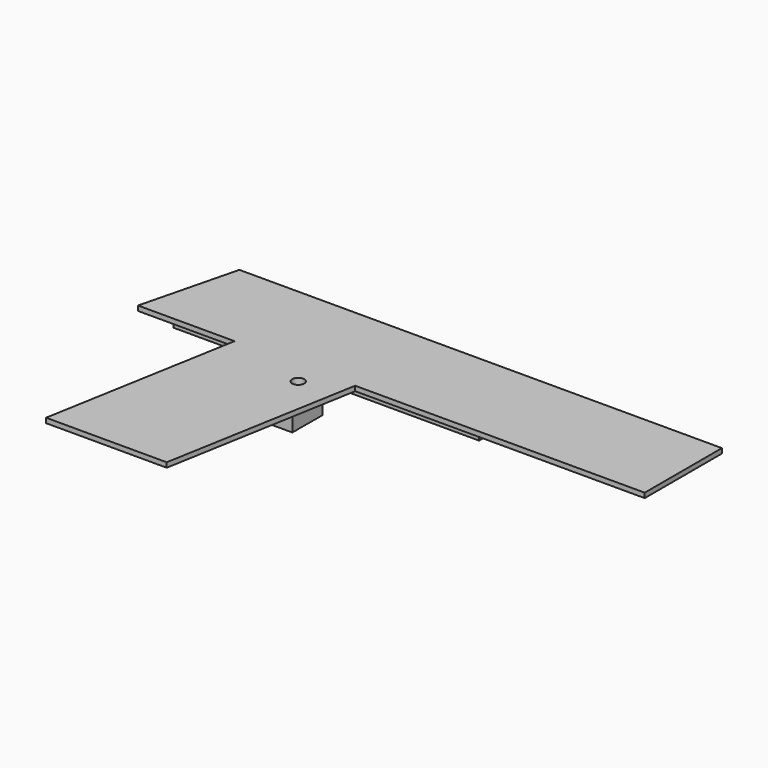
from build123d import *

# Parameters (mm, degrees)
F1_DEPTH  = 9.5
F3_DEPTH  = 18
F4_R      = 4.5
F5_DEPTH  = 40
F7_DEPTH  = 1
F9_DEPTH  = 5
F8_W      = 1
F8_H      = 3
F10_DEPTH = 18
F11_DEPTH = 18
F12_R     = 1
F13_DEPTH = 6.9
F15_DEPTH = 3
F16_R     = 1.25
F17_DEPTH = 5
F18_DEPTH = 18
F19_DEPTH = 10
F20_DEPTH = 5
F21_R     = 1.25
F22_DEPTH = 5


with BuildPart() as f1:
    # F0 (on Top) → F1 (new body, symmetric)
    with BuildSketch(Plane.XY):
        Polygon((60.1971853051, 26.2679918303), (-39.8028146949, 26.2679918303), (-44.8028146949, 6.2679918303), (-24.8028146949, 6.2679918303), (-31.8558939232, -33.7320081697), (-6.8558939232, -33.7320081697), (0.1971853051, 6.2679918303), (60.1971853051, 6.2679918303), align=None)
    extrude(amount=F1_DEPTH, both=True)

    # F2 (on face) → F3 (cut)
    with BuildSketch(Plane.XY.offset(9.5)):
        Polygon((21.8837381179, 24.7679918303), (-38.1162618821, 24.7679918303), (-42.2412618821, 8.2679918303), (-22.4193075097, 8.2679918303), (-27.2986237894, -19.4039858791), (-6.3603302369, -19.4039858791), (-1.8336679186, 6.2679918303), (-17.4193075097, 6.2679918303), (-17.4193075097, 8.2679918303), (56.8837381179, 8.2679918303), (56.8837381179, 11.2679918303), (21.8837381179, 11.2679918303), align=None)
    extrude(amount=-F3_DEPTH, mode=Mode.SUBTRACT)

    # F4 (on face) → F5 (cut)
    with BuildSketch(Plane.YZ.offset(60.1971853051)):
        with Locations((19.7679918303, 0)):
            Circle(F4_R)
    extrude(amount=-F5_DEPTH, mode=Mode.SUBTRACT)

    # F6 (on Top) → F7 (cut, symmetric)
    with BuildSketch(Plane.XY):
        Polygon((21.808039397, 22.0530666411), (21.808039397, 29.0336320457), (-29.6180322766, 28.4013450146), (-29.6180322766, 22.0530666411), align=None)
    extrude(amount=F7_DEPTH, both=True, mode=Mode.SUBTRACT)

    # F8 (on face) → F9 (join)
    with BuildSketch(Plane.XY.offset(-8.5)):
        Polygon((-41.4912618821, 11.2679918303), (21.8837381179, 11.2679918303), (21.8837381179, 12.2679918303), (20.8837381179, 12.2679918303), (-41.2412618821, 12.2679918303), align=None)
    extrude(amount=F9_DEPTH)

    # F8 (on face) → F10 (join, through all)
    with BuildSketch(Plane.XY.offset(-8.5)):
        with Locations((21.3837381179, 23.2679918303)):
            Rectangle(F8_W, F8_H)
    extrude(amount=F10_DEPTH)

    # F8 (on face) → F11 (join, through all)
    with BuildSketch(Plane.XY.offset(-8.5)):
        with Locations((21.3837381179, 13.7679918303)):
            Rectangle(F8_W, F8_H)
    extrude(amount=F11_DEPTH)

    # F12 (on face) → F13 (cut)
    with BuildSketch(Plane.XZ.offset(-6.2679918303)):
        with Locations((52.1971853051, 0)):
            Circle(F12_R)
    extrude(amount=-F13_DEPTH, mode=Mode.SUBTRACT)

    # F14 (on Top) → F15 (cut, symmetric)
    with BuildSketch(Plane.XY):
        Polygon((7.0393216934, 1.2679918303), (-9.7211528242, 1.2679918303), (-8.9475925263, -10.7320081697), (7.0393216934, -10.7320081697), align=None)
    extrude(amount=F15_DEPTH, both=True, mode=Mode.SUBTRACT)

    # F16 (on face) → F17 (cut)
    with BuildSketch(Plane.XY.offset(-8.5)):
        with Locations((-7.9571865499, 1.7126952298)):
            Circle(F16_R)
    extrude(amount=-F17_DEPTH, mode=Mode.SUBTRACT)

    # F18 (cut): a face of the model
    f18_faces = [f1.faces().sort_by_distance(p)[0] for p in [
        (30.1971853051, 7.4773304926, 9.5),
    ]]
    extrude(f18_faces, amount=-F18_DEPTH, mode=Mode.SUBTRACT)

    # F19 (add): a face of the model
    f19_faces = [f1.faces().sort_by_distance(p)[0] for p in [
        (-9.7413030547, 11.7676624495, -3.5),
    ]]
    extrude(f19_faces, amount=-F19_DEPTH)

    # F20 (cut): a face of the model
    f20_faces = [f1.faces().sort_by_distance(p)[0] for p in [
        (-9.7413030547, 11.7676624495, -3.5),
    ]]
    extrude(f20_faces, amount=-F20_DEPTH, mode=Mode.SUBTRACT)

    # F21 (on face) → F22 (join)
    with BuildSketch(Plane(origin=(0, 0, -9.5), x_dir=(1, 0, 0), z_dir=(0, 0, -1))):
        Polygon((-12.660975568, -3.839584766), (-4.6663652174, -3.839584766), (-4.7040209174, 3.888861509), (-12.660975568, 3.888861509), align=None)
        with Locations((-7.9571865499, -1.7126952298)):
            Circle(F21_R, mode=Mode.SUBTRACT)
    extrude(amount=F22_DEPTH)


solid = f1.part
